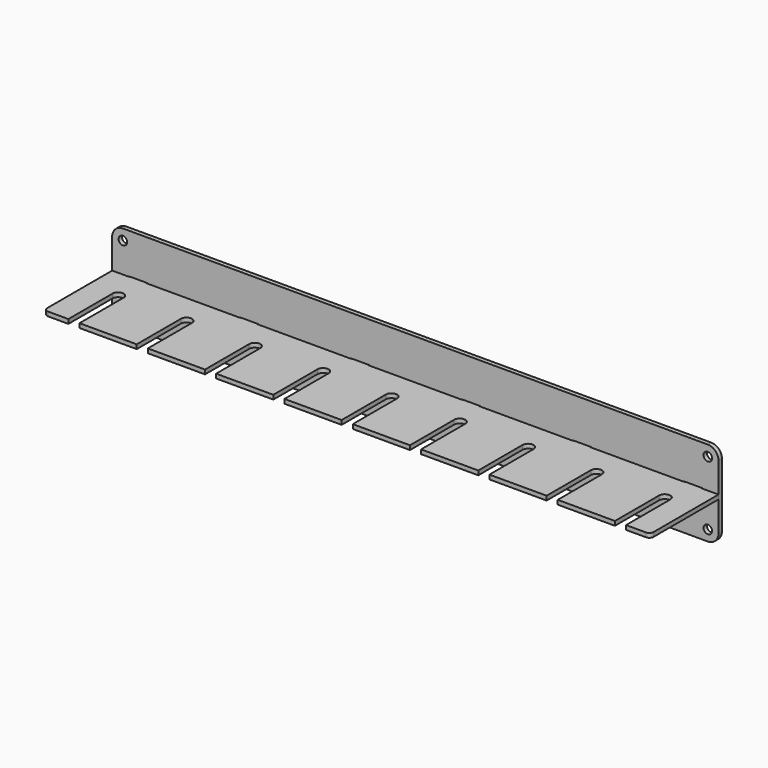
from build123d import *

# Parameters (mm, degrees)
F1_DEPTH = 3.175
F2_R     = 3.175
F3_DEPTH = 3.175


with BuildPart() as f1:
    # F0 (on Top) → F1 (new body)
    with BuildSketch(Plane.XY):
        with BuildLine():
            Line((-216.7763156652, 0), (-229.4763156652, 0))
            Line((-229.4763156652, 0), (-229.4763156652, -60.325))
            ThreePointArc((-229.4763156652, -60.325), (-228.5463796955, -62.5700640303), (-226.3013156652, -63.5))
            Line((-226.3013156652, -63.5), (-211.2391156652, -63.5))
            Line((-211.2391156652, -63.5), (-211.2391156652, -22.4083778501))
            ThreePointArc((-211.2391156652, -22.4083778501), (-207.1116156652, -18.2808778501), (-202.9841156652, -22.4083778501))
            Line((-202.9841156652, -22.4083778501), (-202.9841156652, -63.5))
            Line((-202.9841156652, -63.5), (-160.4391156652, -63.5))
            Line((-160.4391156652, -63.5), (-160.4391156652, -22.4083778501))
            ThreePointArc((-160.4391156652, -22.4083778501), (-156.3116156652, -18.2808778501), (-152.1841156652, -22.4083778501))
            Line((-152.1841156652, -22.4083778501), (-152.1841156652, -63.5))
            Line((-152.1841156652, -63.5), (-109.6391156652, -63.5))
            Line((-109.6391156652, -63.5), (-109.6391156652, -22.4083778501))
            ThreePointArc((-109.6391156652, -22.4083778501), (-105.5116156652, -18.2808778501), (-101.3841156652, -22.4083778501))
            Line((-101.3841156652, -22.4083778501), (-101.3841156652, -63.5))
            Line((-101.3841156652, -63.5), (-58.8391156652, -63.5))
            Line((-58.8391156652, -63.5), (-58.8391156652, -22.4083778501))
            ThreePointArc((-58.8391156652, -22.4083778501), (-54.7116156652, -18.2808778501), (-50.5841156652, -22.4083778501))
            Line((-50.5841156652, -22.4083778501), (-50.5841156652, -63.5))
            Line((-50.5841156652, -63.5), (-8.0391156652, -63.5))
            Line((-8.0391156652, -63.5), (-8.0391156652, -22.4083778501))
            ThreePointArc((-8.0391156652, -22.4083778501), (-3.9116156652, -18.2808778501), (0.2158843348, -22.4083778501))
            Line((0.2158843348, -22.4083778501), (0.2158843348, -63.5))
            Line((0.2158843348, -63.5), (42.7608843348, -63.5))
            Line((42.7608843348, -63.5), (42.7608843348, -22.4083778501))
            ThreePointArc((42.7608843348, -22.4083778501), (46.8883843348, -18.2808778501), (51.0158843348, -22.4083778501))
            Line((51.0158843348, -22.4083778501), (51.0158843348, -63.5))
            Line((51.0158843348, -63.5), (93.5608843348, -63.5))
            Line((93.5608843348, -63.5), (93.5608843348, -22.4083778501))
            ThreePointArc((93.5608843348, -22.4083778501), (97.6883843348, -18.2808778501), (101.8158843348, -22.4083778501))
            Line((101.8158843348, -22.4083778501), (101.8158843348, -63.5))
            Line((101.8158843348, -63.5), (144.3608843348, -63.5))
            Line((144.3608843348, -63.5), (144.3608843348, -22.4083778501))
            ThreePointArc((144.3608843348, -22.4083778501), (148.4883843348, -18.2808778501), (152.6158843348, -22.4083778501))
            Line((152.6158843348, -22.4083778501), (152.6158843348, -63.5))
            Line((152.6158843348, -63.5), (195.1608843348, -63.5))
            Line((195.1608843348, -63.5), (195.1608843348, -22.4083778501))
            ThreePointArc((195.1608843348, -22.4083778501), (199.2883843348, -18.2808778501), (203.4158843348, -22.4083778501))
            Line((203.4158843348, -22.4083778501), (203.4158843348, -63.5))
            Line((203.4158843348, -63.5), (218.1986843348, -63.5))
            ThreePointArc((218.1986843348, -63.5), (220.443748365, -62.5700640303), (221.3736843348, -60.325))
            Line((221.3736843348, -60.325), (221.3736843348, 0))
            Line((221.3736843348, 0), (208.6736843348, 0))
            Line((208.6736843348, 0), (208.6736843348, 3.048))
            Line((208.6736843348, 3.048), (195.9736843348, 3.048))
            Line((195.9736843348, 3.048), (195.9736843348, 0))
            Line((195.9736843348, 0), (126.1236843348, 0))
            Line((126.1236843348, 0), (126.1236843348, 3.048))
            Line((126.1236843348, 3.048), (113.4236843348, 3.048))
            Line((113.4236843348, 3.048), (113.4236843348, 0))
            Line((113.4236843348, 0), (43.5736843348, 0))
            Line((43.5736843348, 0), (43.5736843348, 3.048))
            Line((43.5736843348, 3.048), (30.8736843348, 3.048))
            Line((30.8736843348, 3.048), (30.8736843348, 0))
            Line((30.8736843348, 0), (-38.9763156652, 0))
            Line((-38.9763156652, 0), (-38.9763156652, 3.048))
            Line((-38.9763156652, 3.048), (-51.6763156652, 3.048))
            Line((-51.6763156652, 3.048), (-51.6763156652, 0))
            Line((-51.6763156652, 0), (-121.5263156652, 0))
            Line((-121.5263156652, 0), (-121.5263156652, 3.048))
            Line((-121.5263156652, 3.048), (-134.2263156652, 3.048))
            Line((-134.2263156652, 3.048), (-134.2263156652, 0))
            Line((-134.2263156652, 0), (-204.0763156652, 0))
            Line((-204.0763156652, 0), (-204.0763156652, 3.048))
            Line((-204.0763156652, 3.048), (-216.7763156652, 3.048))
            Line((-216.7763156652, 3.048), (-216.7763156652, 0))
        make_face()
    extrude(amount=F1_DEPTH)


with BuildPart() as f3:
    # F2 (on face) → F3 (new body)
    with BuildSketch(Plane(origin=(0, 0, 0), x_dir=(-1, 0, 0), z_dir=(0, 1, 0))):
        with BuildLine():
            ThreePointArc((-221.3736843348, -22.2123), (-219.0451246665, -27.8339403318), (-213.4234843348, -30.1625))
            Line((-213.4234843348, -30.1625), (221.5261156652, -30.1625))
            ThreePointArc((221.5261156652, -30.1625), (227.147755997, -27.8339403318), (229.4763156652, -22.2123))
            Line((229.4763156652, -22.2123), (229.4763156652, 25.3873))
            ThreePointArc((229.4763156652, 25.3873), (227.147755997, 31.0089403318), (221.5261156652, 33.3375))
            Line((221.5261156652, 33.3375), (-213.4234843348, 33.3375))
            ThreePointArc((-213.4234843348, 33.3375), (-219.0451246665, 31.0089403318), (-221.3736843348, 25.3873))
            Line((-221.3736843348, 25.3873), (-221.3736843348, -22.2123))
        make_face()
        with Locations((-213.4234843348, -22.2123)):
            Circle(F2_R, mode=Mode.SUBTRACT)
        with Locations((221.5261156652, -22.2123)):
            Circle(F2_R, mode=Mode.SUBTRACT)
        with BuildLine():
            Line((-208.6736843348, 3.4925), (-195.9736843348, 3.4925))
            ThreePointArc((-195.9736843348, 3.4925), (-194.0686843348, 1.5875), (-195.9736843348, -0.3175))
            Line((-195.9736843348, -0.3175), (-208.6736843348, -0.3175))
            ThreePointArc((-208.6736843348, -0.3175), (-210.5786843348, 1.5875), (-208.6736843348, 3.4925))
        make_face(mode=Mode.SUBTRACT)
        with BuildLine():
            Line((-126.1236843348, 3.4925), (-113.4236843348, 3.4925))
            ThreePointArc((-113.4236843348, 3.4925), (-111.5186843348, 1.5875), (-113.4236843348, -0.3175))
            Line((-113.4236843348, -0.3175), (-126.1236843348, -0.3175))
            ThreePointArc((-126.1236843348, -0.3175), (-128.0286843348, 1.5875), (-126.1236843348, 3.4925))
        make_face(mode=Mode.SUBTRACT)
        with BuildLine():
            Line((-43.5736843348, 3.4925), (-30.8736843348, 3.4925))
            ThreePointArc((-30.8736843348, 3.4925), (-28.9686843348, 1.5875), (-30.8736843348, -0.3175))
            Line((-30.8736843348, -0.3175), (-43.5736843348, -0.3175))
            ThreePointArc((-43.5736843348, -0.3175), (-45.4786843348, 1.5875), (-43.5736843348, 3.4925))
        make_face(mode=Mode.SUBTRACT)
        with Locations((-213.4234843348, 25.3873)):
            Circle(F2_R, mode=Mode.SUBTRACT)
        with BuildLine():
            Line((38.9763156652, 3.4925), (51.6763156652, 3.4925))
            ThreePointArc((51.6763156652, 3.4925), (53.5813156652, 1.5875), (51.6763156652, -0.3175))
            Line((51.6763156652, -0.3175), (38.9763156652, -0.3175))
            ThreePointArc((38.9763156652, -0.3175), (37.0713156652, 1.5875), (38.9763156652, 3.4925))
        make_face(mode=Mode.SUBTRACT)
        with BuildLine():
            Line((121.5263156652, 3.4925), (134.2263156652, 3.4925))
            ThreePointArc((134.2263156652, 3.4925), (136.1313156652, 1.5875), (134.2263156652, -0.3175))
            Line((134.2263156652, -0.3175), (121.5263156652, -0.3175))
            ThreePointArc((121.5263156652, -0.3175), (119.6213156652, 1.5875), (121.5263156652, 3.4925))
        make_face(mode=Mode.SUBTRACT)
        with BuildLine():
            Line((204.0763156652, 3.4925), (216.7763156652, 3.4925))
            ThreePointArc((216.7763156652, 3.4925), (218.6813156652, 1.5875), (216.7763156652, -0.3175))
            Line((216.7763156652, -0.3175), (204.0763156652, -0.3175))
            ThreePointArc((204.0763156652, -0.3175), (202.1713156652, 1.5875), (204.0763156652, 3.4925))
        make_face(mode=Mode.SUBTRACT)
        with Locations((221.5261156652, 25.3873)):
            Circle(F2_R, mode=Mode.SUBTRACT)
    extrude(amount=F3_DEPTH)


solid = Compound([f1.part, f3.part])
